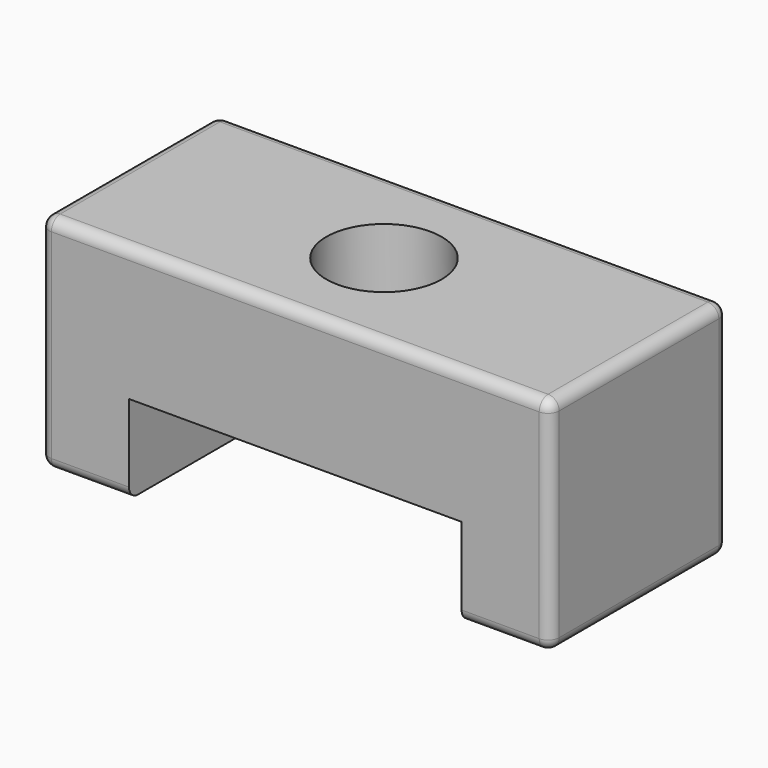
from build123d import *

# Parameters (mm, degrees)
F1_DEPTH = 20
F2_R     = 5.2
F3_DEPTH = 25
F4_R     = 1


with BuildPart() as f1:
    # F0 (on Front) → F1 (new body)
    with BuildSketch(Plane.XZ):
        with BuildLine():
            Line((22, 10), (-22, 10))
            ThreePointArc((-22, 10), (-22.7071067812, 9.7071067812), (-23, 9))
            Line((-23, 9), (-23, -9))
            ThreePointArc((-23, -9), (-22.7071067812, -9.7071067812), (-22, -10))
            Line((-22, -10), (-15, -10))
            Line((-15, -10), (-15, -2))
            Line((-15, -2), (15, -2))
            Line((15, -2), (15, -10))
            Line((15, -10), (22, -10))
            ThreePointArc((22, -10), (22.7071067812, -9.7071067812), (23, -9))
            Line((23, -9), (23, 9))
            ThreePointArc((23, 9), (22.7071067812, 9.7071067812), (22, 10))
        make_face()
    extrude(amount=F1_DEPTH)

    # F2 (on face) → F3 (cut)
    with BuildSketch(Plane.XY.offset(10)):
        with Locations((0, -10)):
            Circle(F2_R)
    extrude(amount=-F3_DEPTH, mode=Mode.SUBTRACT)

    # F4
    f4_edges = [f1.edges().sort_by_distance(p)[0] for p in [
        (0, -20, 10),
        (23, -20, 0),
        (0, 0, 10),
        (23, 0, 0),
    ]]
    fillet(f4_edges, radius=F4_R)


solid = f1.part
